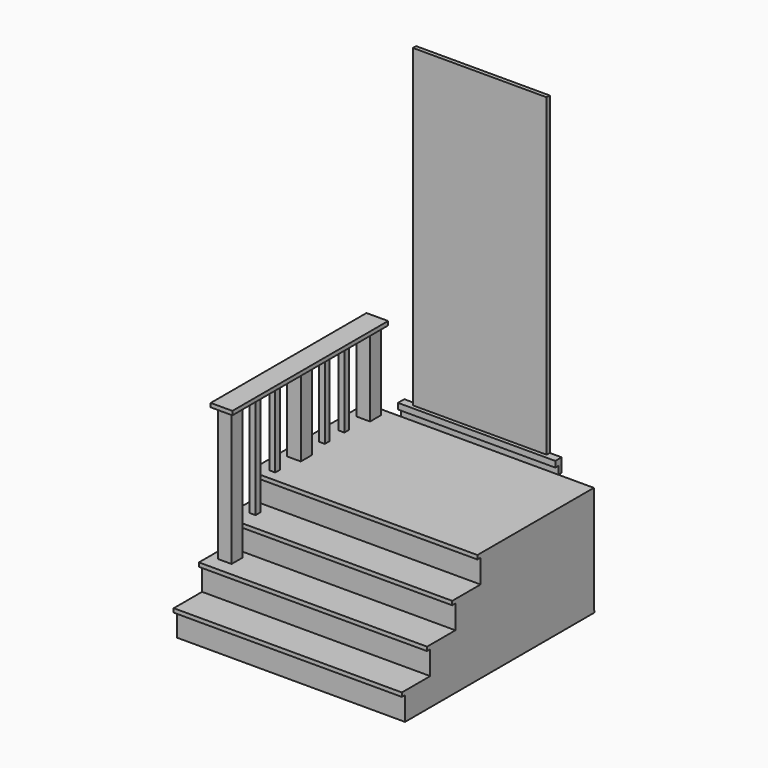
from build123d import *

# Parameters (mm, degrees)
F1_DEPTH       = 711.2
F3_DEPTH       = 533.4
F5_DEPTH       = 355.6
F7_DEPTH       = 177.8
F8_W           = 88.9
F8_H           = 88.9
F8_W_2         = 38.1
F8_H_2         = 38.1
F9_DEPTH       = 1219.2
F10_W          = 139.7
F10_H          = 1257.3
F11_DEPTH      = 25.4
F12_W          = 863.6
F12_H          = 2032
F13_DEPTH      = 25.4
F14_W          = 1016
F14_H          = 38.1
F15_DEPTH      = 25.4
F15_DEPTH_BACK = 25.4
F16_W          = 1016
F16_H          = 50.8
F17_DEPTH      = 25.4
F18_W          = 38.1
F18_H          = 38.1
F18_W_2        = 88.9
F18_H_2        = 88.9
F19_DEPTH      = 25.4
F21_DEPTH      = 25.4
F23_DEPTH      = 25.4
F25_DEPTH      = 25.4
F30_W          = 1391.7394877579
F30_H          = 901.7
F31_DEPTH      = 685.8
F33_DEPTH      = 508
F34_W          = 1422.4
F34_H          = 1308.1
F35_DEPTH      = 330.2
F37_DEPTH      = 152.4
F38_W          = 88.9
F38_H          = 88.9
F40_W          = 1272.0178561494
F40_H          = 1746.8100812477
F41_DEPTH      = 2006.6
F43_DEPTH      = 50.8


with BuildPart() as f1:
    # F0 (on Top) → F1 (new body)
    with BuildSketch(Plane.XY):
        Polygon((802.3194193208, 307.9249393946), (-1026.4805806792, 307.9249393946), (-1026.4805806792, -606.4750606054), (395.9194193208, -606.4750606054), (802.3194193208, -200.0750606054), align=None)
    extrude(amount=F1_DEPTH)

    # F2 (on Top) → F3 (join)
    with BuildSketch(Plane.XY):
        Polygon((395.9194193208, -606.4750606054), (-1026.4805806792, -606.4750606054), (-1026.4805806792, -809.6750606054), (480.087615195, -809.6750606054), (1005.5194193208, -284.2432564796), (1005.5194193208, 307.9249393946), (802.3194193208, 307.9249393946), (802.3194193208, -200.0750606054), align=None)
    extrude(amount=F3_DEPTH)

    # F4 (on Top) → F5 (join)
    with BuildSketch(Plane.XY):
        Polygon((480.087615195, -809.6750606054), (-1026.4805806792, -809.6750606054), (-1026.4805806792, -1012.8750606054), (564.2558110692, -1012.8750606054), (1208.7194193208, -368.4114523538), (1208.7194193208, 307.9249393946), (1005.5194193208, 307.9249393946), (1005.5194193208, -284.2432564796), align=None)
    extrude(amount=F5_DEPTH)

    # F6 (on Top) → F7 (join)
    with BuildSketch(Plane.XY):
        Polygon((564.2558110692, -1012.8750606054), (-1026.4805806792, -1012.8750606054), (-1026.4805806792, -1216.0750606054), (648.4240069434, -1216.0750606054), (1411.9194193208, -452.579648228), (1411.9194193208, 307.9249393946), (1208.7194193208, 307.9249393946), (1208.7194193208, -368.4114523538), align=None)
    extrude(amount=F7_DEPTH)

    # F8 (on Top) → F9 (join)
    with BuildSketch(Plane.XY):
        with Locations((-931.2305806792, -904.9250606054)):
            Rectangle(F8_W, F8_H)
        with Locations((-931.2305806792, 212.6749393946)):
            Rectangle(F8_W, F8_H)
        with Locations((-931.2305806792, -346.1250606054)):
            Rectangle(F8_W, F8_H)
        with Locations((-931.2305806792, 12.6499393946)):
            Rectangle(F8_W_2, F8_H_2)
        with Locations((-931.2305806792, -146.1000606054)):
            Rectangle(F8_W_2, F8_H_2)
        with Locations((-931.2305806792, -546.1500606054)):
            Rectangle(F8_W_2, F8_H_2)
        with Locations((-931.2305806792, -704.9000606054)):
            Rectangle(F8_W_2, F8_H_2)
    extrude(amount=F9_DEPTH)

    # F10 (on face) → F11 (join)
    with BuildSketch(Plane.XY.offset(1219.2)):
        with Locations((-931.1371445656, -346.1250606054)):
            Rectangle(F10_W, F10_H)
    extrude(amount=F11_DEPTH)



with BuildPart() as f13:
    # F12 (on face) → F13 (new body)
    with BuildSketch(Plane(origin=(0, 307.9249393946, 0), x_dir=(-1, 0, 0), z_dir=(0, 1, 0))):
        with Locations((289.8805806792, 1816.1)):
            Rectangle(F12_W, F12_H)
    extrude(amount=F13_DEPTH)


with BuildPart() as f15:
    # F14 (on face) → F15 (new body, two sides)
    with BuildSketch(Plane(origin=(0, 307.9249393946, 0), x_dir=(-1, 0, 0), z_dir=(0, 1, 0))) as f15_sk:
        with Locations((289.8805806792, 781.05)):
            Rectangle(F14_W, F14_H)
    extrude(amount=F15_DEPTH)
    extrude(f15_sk.sketch, amount=-F15_DEPTH_BACK)


with BuildPart() as f17:
    # F16 (on face) → F17 (new body)
    with BuildSketch(Plane(origin=(0, 307.9249393946, 0), x_dir=(-1, 0, 0), z_dir=(0, 1, 0))):
        with Locations((289.8805806792, 736.6)):
            Rectangle(F16_W, F16_H)
    extrude(amount=F17_DEPTH)


with BuildPart() as f1_1:
    add(f1.part)

    add(f17.part)  # F19 merges F17
    # F18 (on face) → F19 (join)
    with BuildSketch(Plane.XY.offset(711.2)):
        Polygon((395.9194193208, -606.4750606054), (-1026.4805806792, -606.4750606054), (-1026.4805806792, -631.8750606054), (406.4404438051, -631.8750606054), (827.7194193208, -210.5960850896), (827.7194193208, 307.9249393946), (802.3194193208, 307.9249393946), (802.3194193208, -200.0750606054), align=None)
        Polygon((-1026.4805806792, 307.9249393946), (-1026.4805806792, -606.4750606054), (395.9194193208, -606.4750606054), (802.3194193208, -200.0750606054), (802.3194193208, 307.9249393946), align=None)
        with Locations((-931.2305806792, -546.1500606054)):
            Rectangle(F18_W, F18_H, mode=Mode.SUBTRACT)
        with Locations((-931.2305806792, -346.1250606054)):
            Rectangle(F18_W_2, F18_H_2, mode=Mode.SUBTRACT)
        with Locations((-931.2305806792, -146.1000606054)):
            Rectangle(F18_W, F18_H, mode=Mode.SUBTRACT)
        with Locations((-931.2305806792, 12.6499393946)):
            Rectangle(F18_W, F18_H, mode=Mode.SUBTRACT)
        with Locations((-931.2305806792, 212.6749393946)):
            Rectangle(F18_W_2, F18_H_2, mode=Mode.SUBTRACT)
    extrude(amount=-F19_DEPTH)

    # F20 (on face) → F21 (join)
    with BuildSketch(Plane.XY.offset(533.4)):
        Polygon((480.087615195, -809.6750606054), (-1026.4805806792, -809.6750606054), (-1026.4805806792, -835.0750606054), (490.6086396793, -835.0750606054), (1030.9194193208, -294.7642809639), (1030.9194193208, 308.4329366684), (1005.5194193208, 307.9249393946), (1005.5194193208, -284.2432564796), align=None)
    extrude(amount=-F21_DEPTH)

    # F22 (on face) → F23 (join)
    with BuildSketch(Plane.XY.offset(355.6)):
        Polygon((564.2558110692, -1012.8750606054), (-1026.4805806792, -1012.8750606054), (-1026.4805806792, -1038.2750606054), (574.7768355535, -1038.2750606054), (1234.1194193208, -378.9324768381), (1234.1194193208, 307.9249393946), (1208.7194193208, 307.9249393946), (1208.7194193208, -368.4114523538), align=None)
    extrude(amount=-F23_DEPTH)

    # F24 (on face) → F25 (join)
    with BuildSketch(Plane.XY.offset(177.8)):
        Polygon((648.4240069434, -1216.0750606054), (-1026.4805806792, -1216.0750606054), (-1026.4805806792, -1241.4750606054), (658.9450314277, -1241.4750606054), (1439.038190565, -461.3819014681), (1437.3194193208, 307.9249393946), (1411.9194193208, 307.9249393946), (1411.9194193208, -452.579648228), align=None)
    extrude(amount=-F25_DEPTH)

    # F30 (on face) → F31 (cut, through all)
    with BuildSketch(Plane(origin=(0, 0, 0), x_dir=(1, 0, 0), z_dir=(0, 0, -1))):
        with Locations((-305.2108368003, 142.9250606054)):
            Rectangle(F30_W, F30_H)
    extrude(amount=-F31_DEPTH, mode=Mode.SUBTRACT)

    # F32 (on face) → F33 (cut, through all)
    with BuildSketch(Plane(origin=(0, 0, 0), x_dir=(1, 0, 0), z_dir=(0, 0, -1))):
        Polygon((474.8271029529, 796.9750606054), (-1001.0805806792, 796.9750606054), (-1001.0805806792, -307.9249393946), (390.6589070787, -307.9249393946), align=None)
    extrude(amount=-F33_DEPTH, mode=Mode.SUBTRACT)

    # F34 (on face) → F35 (cut, through all)
    with BuildSketch(Plane(origin=(0, 0, 0), x_dir=(1, 0, 0), z_dir=(0, 0, -1))):
        with Locations((-289.8805806792, 346.1250606054)):
            Rectangle(F34_W, F34_H)
    extrude(amount=-F35_DEPTH, mode=Mode.SUBTRACT)

    # F36 (on face) → F37 (cut, through all)
    with BuildSketch(Plane(origin=(0, 0, 0), x_dir=(1, 0, 0), z_dir=(0, 0, -1))):
        Polygon((637.8720402718, 1203.3750606054), (-1001.0805806792, 1203.3750606054), (-1001.0805806792, -307.9249393946), (648.4240069434, -307.9249393946), (648.4240069434, 1192.8230939337), align=None)
    extrude(amount=-F37_DEPTH, mode=Mode.SUBTRACT)

    # F38 (on face) → F39 (join, up to the next surface of F1)
    with BuildSketch(Plane(origin=(0, 0, 0), x_dir=(1, 0, 0), z_dir=(0, 0, -1))):
        with Locations((-931.2305806792, -212.6749393946)):
            Rectangle(F38_W, F38_H)
        with Locations((-931.2305806792, 498.5250606054)):
            Rectangle(F38_W, F38_H)
        with Locations((-931.2305806792, 904.9250606054)):
            Rectangle(F38_W, F38_H)
    extrude(until=Until.NEXT, dir=(0, 0, 1))

    # F40 (on face) → F41 (cut)
    with BuildSketch(Plane.XY.offset(711.2)):
        with Locations((1031.9283473955, -472.5622981787)):
            Rectangle(F40_W, F40_H)
    extrude(amount=-F41_DEPTH, mode=Mode.SUBTRACT)

    # F42 (on face) → F43 (join)
    with BuildSketch(Plane.YZ.offset(395.9194193208)):
        Polygon((311.2705349922, 0), (307.9249393946, 711.2), (-631.8750606054, 711.2), (-631.8750606054, 685.8), (-606.4750606054, 685.8), (-606.4750606054, 533.4), (-835.0750606054, 533.4), (-835.0750606054, 508), (-809.6750606054, 508), (-809.6750606054, 355.6), (-1038.2750606054, 355.6), (-1038.2750606054, 330.2), (-1012.8750606054, 330.2), (-1012.8750606054, 177.8), (-1241.4750606054, 177.8), (-1241.4750606054, 152.4), (-1216.0750606054, 152.4), (-1216.0750606054, 0), align=None)
    extrude(amount=F43_DEPTH)


solid = Compound([f13.part, f15.part, f1_1.part])
